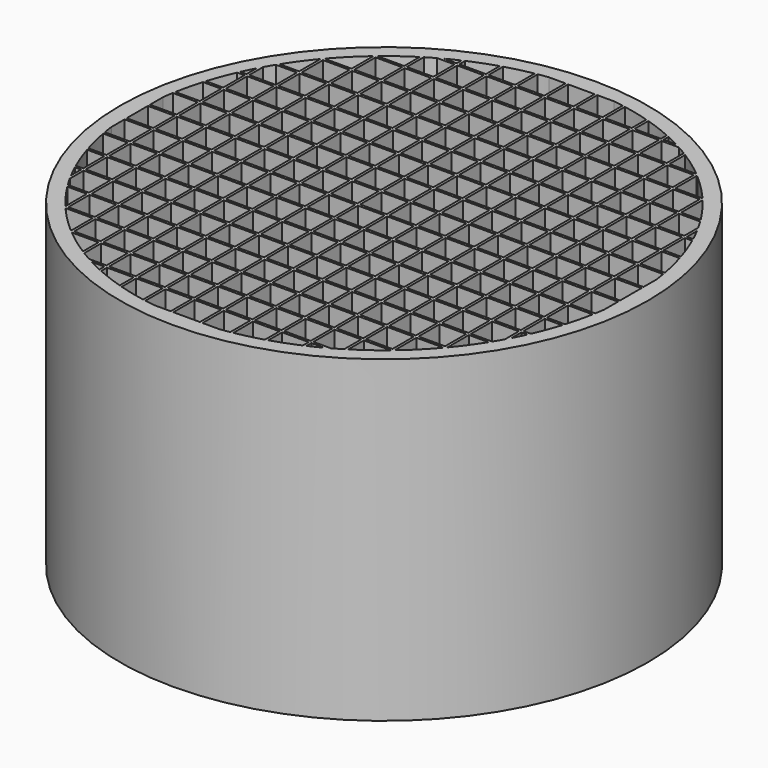
from build123d import *

# Parameters (mm, degrees)
F0_R     = 49.75
F0_R_2   = 46.9
F1_DEPTH = 60
F3_DEPTH = 60
F5_DEPTH = 60


with BuildPart() as f1:
    # F0 (on Top) → F1 (new body)
    with BuildSketch(Plane.XY):
        Circle(F0_R)
        Circle(F0_R_2, mode=Mode.SUBTRACT)
    extrude(amount=F1_DEPTH)

    # F2 (on Top) → F3 (join)
    with BuildSketch(Plane.XY):
        with BuildLine():
            Line((-30, -36.050104022), (-30, 36.050104022))
            ThreePointArc((-30, 36.050104022), (-30.2507359633, 35.8399633605), (-30.5, 35.6280788143))
            Line((-30.5, 35.6280788143), (-30.5, -35.6280788143))
            ThreePointArc((-30.5, -35.6280788143), (-30.2507359633, -35.8399633605), (-30, -36.050104022))
        make_face()
        with BuildLine():
            Line((-35.5, -30.6489804072), (-35.5, 30.6489804072))
            ThreePointArc((-35.5, 30.6489804072), (-35.7512124708, 30.3555729128), (-36, 30.0601064536))
            Line((-36, 30.0601064536), (-36, -30.0601064536))
            ThreePointArc((-36, -30.0601064536), (-35.7512124708, -30.3555729128), (-35.5, -30.6489804072))
        make_face()
        with BuildLine():
            Line((-46.5, -6.112282716), (-46.5, 6.112282716))
            ThreePointArc((-46.5, 6.112282716), (-46.9, 0), (-46.5, -6.112282716))
        make_face()
        with BuildLine():
            Line((-41, -22.7730103412), (-41, 22.7730103412))
            ThreePointArc((-41, 22.7730103412), (-41.2525895866, 22.3121906678), (-41.5, 21.8485697472))
            Line((-41.5, 21.8485697472), (-41.5, -21.8485697472))
            ThreePointArc((-41.5, -21.8485697472), (-41.2525895866, -22.3121906678), (-41, -22.7730103412))
        make_face()
        with BuildLine():
            Line((-24.5, -39.9919991998), (-24.5, 39.9919991998))
            ThreePointArc((-24.5, 39.9919991998), (-24.7504873654, 39.837461957), (-25, 39.6813558236))
            Line((-25, 39.6813558236), (-25, -39.6813558236))
            ThreePointArc((-25, -39.6813558236), (-24.7504873654, -39.837461957), (-24.5, -39.9919991998))
        make_face()
        with BuildLine():
            Line((-19, -42.8790158469), (-19, 42.8790158469))
            ThreePointArc((-19, 42.8790158469), (-19.2503289046, 42.7672168497), (-19.5, 42.6539564402))
            Line((-19.5, 42.6539564402), (-19.5, -42.6539564402))
            ThreePointArc((-19.5, -42.6539564402), (-19.2503289046, -42.7672168497), (-19, -42.8790158469))
        make_face()
        with BuildLine():
            Line((-13.5, -44.9150308917), (-13.5, 44.9150308917))
            ThreePointArc((-13.5, 44.9150308917), (-13.7502137223, 44.8390635784), (-14, 44.7617023805))
            Line((-14, 44.7617023805), (-14, -44.7617023805))
            ThreePointArc((-14, -44.7617023805), (-13.7502137223, -44.8390635784), (-13.5, -44.9150308917))
        make_face()
        with BuildLine():
            Line((-8, -46.2126606029), (-8, 46.2126606029))
            ThreePointArc((-8, 46.2126606029), (-8.2501209536, 46.1686636611), (-8.5, 46.1233129773))
            Line((-8.5, 46.1233129773), (-8.5, -46.1233129773))
            ThreePointArc((-8.5, -46.1233129773), (-8.2501209536, -46.1686636611), (-8, -46.2126606029))
        make_face()
        with BuildLine():
            Line((-2.5, -46.8333214709), (-2.5, 46.8333214709))
            ThreePointArc((-2.5, 46.8333214709), (-2.7500392051, 46.8193046122), (-3, 46.8039528245))
            Line((-3, 46.8039528245), (-3, -46.8039528245))
            ThreePointArc((-3, -46.8039528245), (-2.7500392051, -46.8193046122), (-2.5, -46.8333214709))
        make_face()
        with BuildLine():
            Line((3, -46.8039528245), (3, 46.8039528245))
            ThreePointArc((3, 46.8039528245), (2.7500392051, 46.8193046122), (2.5, 46.8333214709))
            Line((2.5, 46.8333214709), (2.5, -46.8333214709))
            ThreePointArc((2.5, -46.8333214709), (2.7500392051, -46.8193046122), (3, -46.8039528245))
        make_face()
        with BuildLine():
            Line((8.5, -46.1233129773), (8.5, 46.1233129773))
            ThreePointArc((8.5, 46.1233129773), (8.2501209536, 46.1686636611), (8, 46.2126606029))
            Line((8, 46.2126606029), (8, -46.2126606029))
            ThreePointArc((8, -46.2126606029), (8.2501209536, -46.1686636611), (8.5, -46.1233129773))
        make_face()
        with BuildLine():
            Line((14, -44.7617023805), (14, 44.7617023805))
            ThreePointArc((14, 44.7617023805), (13.7502137223, 44.8390635784), (13.5, 44.9150308917))
            Line((13.5, 44.9150308917), (13.5, -44.9150308917))
            ThreePointArc((13.5, -44.9150308917), (13.7502137223, -44.8390635784), (14, -44.7617023805))
        make_face()
        with BuildLine():
            Line((19.5, -42.6539564402), (19.5, 42.6539564402))
            ThreePointArc((19.5, 42.6539564402), (19.2503289046, 42.7672168497), (19, 42.8790158469))
            Line((19, 42.8790158469), (19, -42.8790158469))
            ThreePointArc((19, -42.8790158469), (19.2503289046, -42.7672168497), (19.5, -42.6539564402))
        make_face()
        with BuildLine():
            Line((25, -39.6813558236), (25, 39.6813558236))
            ThreePointArc((25, 39.6813558236), (24.7504873654, 39.837461957), (24.5, 39.9919991998))
            Line((24.5, 39.9919991998), (24.5, -39.9919991998))
            ThreePointArc((24.5, -39.9919991998), (24.7504873654, -39.837461957), (25, -39.6813558236))
        make_face()
        with BuildLine():
            Line((30.5, -35.6280788143), (30.5, 35.6280788143))
            ThreePointArc((30.5, 35.6280788143), (30.2507359633, 35.8399633605), (30, 36.050104022))
            Line((30, 36.050104022), (30, -36.050104022))
            ThreePointArc((30, -36.050104022), (30.2507359633, -35.8399633605), (30.5, -35.6280788143))
        make_face()
        with BuildLine():
            Line((36, -30.0601064536), (36, 30.0601064536))
            ThreePointArc((36, 30.0601064536), (35.7512124708, 30.3555729128), (35.5, 30.6489804072))
            Line((35.5, 30.6489804072), (35.5, -30.6489804072))
            ThreePointArc((35.5, -30.6489804072), (35.7512124708, -30.3555729128), (36, -30.0601064536))
        make_face()
        with BuildLine():
            Line((41.5, -21.8485697472), (41.5, 21.8485697472))
            ThreePointArc((41.5, 21.8485697472), (41.2525895866, 22.3121906678), (41, 22.7730103412))
            Line((41, 22.7730103412), (41, -22.7730103412))
            ThreePointArc((41, -22.7730103412), (41.2525895866, -22.3121906678), (41.5, -21.8485697472))
        make_face()
        with BuildLine():
            ThreePointArc((46.5, -6.112282716), (46.7998931623, -3.0626785662), (46.9, 0))
            ThreePointArc((46.9, 0), (46.7998931623, 3.0626785662), (46.5, 6.112282716))
            Line((46.5, 6.112282716), (46.5, -6.112282716))
        make_face()
    extrude(amount=F3_DEPTH)

    # F4 (on Top) → F5 (join)
    with BuildSketch(Plane.XY):
        with BuildLine():
            Line((-6.8373971656, 46.5), (6.8373971656, 46.5))
            ThreePointArc((6.8373971656, 46.5), (0, 47), (-6.8373971656, 46.5))
        make_face()
        with BuildLine():
            Line((-22.9782505862, 41), (22.9782505862, 41))
            ThreePointArc((22.9782505862, 41), (22.5217186218, 41.2525416226), (22.0624114729, 41.5))
            Line((22.0624114729, 41.5), (-22.0624114729, 41.5))
            ThreePointArc((-22.0624114729, 41.5), (-22.5217186218, 41.2525416226), (-22.9782505862, 41))
        make_face()
        with BuildLine():
            Line((-30.8017856625, 35.5), (30.8017856625, 35.5))
            ThreePointArc((30.8017856625, 35.5), (30.5098620372, 35.7512002382), (30.2158898595, 36))
            Line((30.2158898595, 36), (-30.2158898595, 36))
            ThreePointArc((-30.2158898595, 36), (-30.5098620372, 35.7512002382), (-30.8017856625, 35.5))
        make_face()
        with BuildLine():
            Line((-36.1801050303, 30), (36.1801050303, 30))
            ThreePointArc((36.1801050303, 30), (35.9707283335, 30.2507306219), (35.7596140919, 30.5))
            Line((35.7596140919, 30.5), (-35.7596140919, 30.5))
            ThreePointArc((-35.7596140919, 30.5), (-35.9707283335, 30.2507306219), (-36.1801050303, 30))
        make_face()
        with BuildLine():
            Line((-40.1092258714, 24.5), (40.1092258714, 24.5))
            ThreePointArc((40.1092258714, 24.5), (39.9551438126, 24.7504844987), (39.7994974843, 25))
            Line((39.7994974843, 25), (-39.7994974843, 25))
            ThreePointArc((-39.7994974843, 25), (-39.9551438126, 24.7504844987), (-40.1092258714, 24.5))
        make_face()
        with BuildLine():
            Line((-42.9883705204, 19), (42.9883705204, 19))
            ThreePointArc((42.9883705204, 19), (42.8768574145, 19.2503272246), (42.7638866335, 19.5))
            Line((42.7638866335, 19.5), (-42.7638866335, 19.5))
            ThreePointArc((-42.7638866335, 19.5), (-42.8768574145, 19.2503272246), (-42.9883705204, 19))
        make_face()
        with BuildLine():
            ThreePointArc((-6.8373971656, -46.5), (0, -47), (6.8373971656, -46.5))
            Line((6.8373971656, -46.5), (-6.8373971656, -46.5))
        make_face()
        with BuildLine():
            ThreePointArc((22.0624114729, -41.5), (22.5217186218, -41.2525416226), (22.9782505862, -41))
            Line((22.9782505862, -41), (-22.9782505862, -41))
            ThreePointArc((-22.9782505862, -41), (-22.5217186218, -41.2525416226), (-22.0624114729, -41.5))
            Line((-22.0624114729, -41.5), (22.0624114729, -41.5))
        make_face()
        with BuildLine():
            ThreePointArc((30.2158898595, -36), (30.5098620372, -35.7512002382), (30.8017856625, -35.5))
            Line((30.8017856625, -35.5), (-30.8017856625, -35.5))
            ThreePointArc((-30.8017856625, -35.5), (-30.5098620372, -35.7512002382), (-30.2158898595, -36))
            Line((-30.2158898595, -36), (30.2158898595, -36))
        make_face()
        with BuildLine():
            ThreePointArc((35.7596140919, -30.5), (35.9707283335, -30.2507306219), (36.1801050303, -30))
            Line((36.1801050303, -30), (-36.1801050303, -30))
            ThreePointArc((-36.1801050303, -30), (-35.9707283335, -30.2507306219), (-35.7596140919, -30.5))
            Line((-35.7596140919, -30.5), (35.7596140919, -30.5))
        make_face()
        with BuildLine():
            ThreePointArc((39.7994974843, -25), (39.9551438126, -24.7504844987), (40.1092258714, -24.5))
            Line((40.1092258714, -24.5), (-40.1092258714, -24.5))
            ThreePointArc((-40.1092258714, -24.5), (-39.9551438126, -24.7504844987), (-39.7994974843, -25))
            Line((-39.7994974843, -25), (39.7994974843, -25))
        make_face()
        with BuildLine():
            ThreePointArc((42.7638866335, -19.5), (42.8768574145, -19.2503272246), (42.9883705204, -19))
            Line((42.9883705204, -19), (-42.9883705204, -19))
            ThreePointArc((-42.9883705204, -19), (-42.8768574145, -19.2503272246), (-42.7638866335, -19.5))
            Line((-42.7638866335, -19.5), (42.7638866335, -19.5))
        make_face()
        with BuildLine():
            ThreePointArc((44.8664685483, -14), (44.9436497173, -13.7502127287), (45.0194402453, -13.5))
            Line((45.0194402453, -13.5), (-45.0194402453, -13.5))
            ThreePointArc((-45.0194402453, -13.5), (-44.9436497173, -13.7502127287), (-44.8664685483, -14))
            Line((-44.8664685483, -14), (44.8664685483, -14))
        make_face()
        with BuildLine():
            ThreePointArc((46.2249932396, -8.5), (46.2702443586, -8.2501204231), (46.3141447076, -8))
            Line((46.3141447076, -8), (-46.3141447076, -8))
            ThreePointArc((-46.3141447076, -8), (-46.2702443586, -8.2501204231), (-46.2249932396, -8.5))
            Line((-46.2249932396, -8.5), (46.2249932396, -8.5))
        make_face()
        with BuildLine():
            ThreePointArc((46.9041575982, -3), (46.9194766093, -2.7500390378), (46.9334635415, -2.5))
            Line((46.9334635415, -2.5), (-46.9334635415, -2.5))
            ThreePointArc((-46.9334635415, -2.5), (-46.9194766093, -2.7500390378), (-46.9041575982, -3))
            Line((-46.9041575982, -3), (46.9041575982, -3))
        make_face()
        with BuildLine():
            Line((-45.0194402453, 13.5), (45.0194402453, 13.5))
            ThreePointArc((45.0194402453, 13.5), (44.9436497173, 13.7502127287), (44.8664685483, 14))
            Line((44.8664685483, 14), (-44.8664685483, 14))
            ThreePointArc((-44.8664685483, 14), (-44.9436497173, 13.7502127287), (-45.0194402453, 13.5))
        make_face()
        with BuildLine():
            Line((-46.3141447076, 8), (46.3141447076, 8))
            ThreePointArc((46.3141447076, 8), (46.2702443586, 8.2501204231), (46.2249932396, 8.5))
            Line((46.2249932396, 8.5), (-46.2249932396, 8.5))
            ThreePointArc((-46.2249932396, 8.5), (-46.2702443586, 8.2501204231), (-46.3141447076, 8))
        make_face()
        with BuildLine():
            Line((-46.9334635415, 2.5), (46.9334635415, 2.5))
            ThreePointArc((46.9334635415, 2.5), (46.9194766093, 2.7500390378), (46.9041575982, 3))
            Line((46.9041575982, 3), (-46.9041575982, 3))
            ThreePointArc((-46.9041575982, 3), (-46.9194766093, 2.7500390378), (-46.9334635415, 2.5))
        make_face()
    extrude(amount=F5_DEPTH)


solid = f1.part
